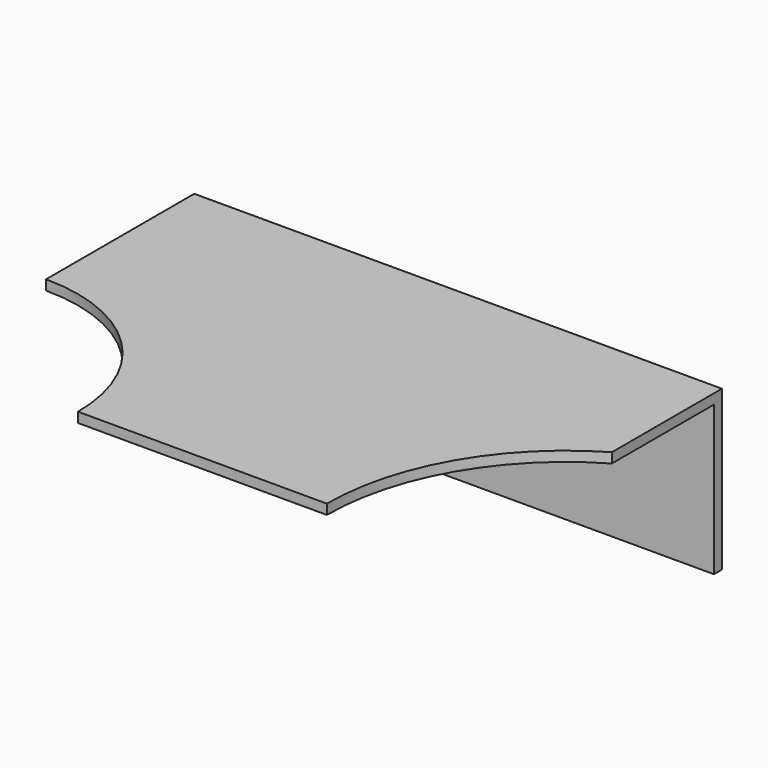
from build123d import *

# Parameters (mm, degrees)
CYLINDER005_R     = 0.6
CYLINDER005_DEPTH = 4
CYLINDER004_R     = 6
CYLINDER004_DEPTH = 6
CYLINDER003_R     = 4
CYLINDER003_DEPTH = 6
CUBE009_W         = 6.025
CUBE009_H         = 3.95
CUBE009_DEPTH     = 4
CUBE008_W         = 6.025
CUBE008_H         = 3.95
CUBE008_DEPTH     = 4
CUBE007_W         = 15.25
CUBE007_H         = 11.6
CUBE007_DEPTH     = 4
CUBE006_W         = 15.25
CUBE006_H         = 3.95
CUBE006_DEPTH     = 4
CUBE005_W         = 13.25
CUBE005_H         = 11.6
CUBE005_DEPTH     = 4


with BuildPart() as cylinder005:
    # cylinder005 → cylinder005 (new body)
    with BuildSketch(Plane(origin=(6.625, -10, -1), x_dir=(1, 0, 0), z_dir=(0, 0, 1))):
        Circle(CYLINDER005_R)
    extrude(amount=CYLINDER005_DEPTH)


with BuildPart() as cylinder004:
    # cylinder004 → cylinder004 (new body)
    with BuildSketch(Plane(origin=(16.25, 0, 0), x_dir=(1, 0, 0), z_dir=(0, 0, 1))):
        Circle(CYLINDER004_R)
    extrude(amount=CYLINDER004_DEPTH)


with BuildPart() as cylinder003:
    # cylinder003 → cylinder003 (new body)
    with BuildSketch(Plane.XY):
        Circle(CYLINDER003_R)
    extrude(amount=CYLINDER003_DEPTH)


with BuildPart() as cube009:
    # cube009 → cube009 (new body)
    with BuildSketch(Plane(origin=(8.225, -12.6, -1), x_dir=(1, 0, 0), z_dir=(0, 0, 1))):
        with Locations((3.0125, 1.975)):
            Rectangle(CUBE009_W, CUBE009_H)
    extrude(amount=CUBE009_DEPTH)


with BuildPart() as cube008:
    # cube008 → cube008 (new body)
    with BuildSketch(Plane(origin=(-1, -12.6, -1), x_dir=(1, 0, 0), z_dir=(0, 0, 1))):
        with Locations((3.0125, 1.975)):
            Rectangle(CUBE008_W, CUBE008_H)
    extrude(amount=CUBE008_DEPTH)


with BuildPart() as cube007:
    # cube007 → cube007 (new body)
    with BuildSketch(Plane(origin=(-1, -8.4, -0.25), x_dir=(1, 0, 0), z_dir=(0, 0, 1))):
        with Locations((7.625, 5.8)):
            Rectangle(CUBE007_W, CUBE007_H)
    extrude(amount=CUBE007_DEPTH)


with BuildPart() as cube006:
    # cube006 → cube006 (new body)
    with BuildSketch(Plane(origin=(-1, -1, 0.25), x_dir=(1, 0, 0), z_dir=(0, 0, 1))):
        with Locations((7.625, 1.975)):
            Rectangle(CUBE006_W, CUBE006_H)
    extrude(amount=CUBE006_DEPTH)


with BuildPart() as difference013:
    # cube005 → cube005 (new body)
    with BuildSketch(Plane.XY):
        with Locations((6.625, 5.8)):
            Rectangle(CUBE005_W, CUBE005_H)
    extrude(amount=CUBE005_DEPTH)

    # difference007: cut cube006
    add(cube006.part, mode=Mode.SUBTRACT)


with BuildPart() as difference013_1:
    # difference007 placement: moved
    add(difference013.part.moved(Location((0, -11.6, 0))))

    # difference008: cut cube007
    add(cube007.part, mode=Mode.SUBTRACT)

    # difference009: cut cube008
    add(cube008.part, mode=Mode.SUBTRACT)

    # difference010: cut cube009
    add(cube009.part, mode=Mode.SUBTRACT)

    # difference011: cut cylinder003
    add(cylinder003.part, mode=Mode.SUBTRACT)

    # difference012: cut cylinder004
    add(cylinder004.part, mode=Mode.SUBTRACT)

    # difference013: cut cylinder005
    add(cylinder005.part, mode=Mode.SUBTRACT)


with BuildPart() as mirrored_difference013:
    # mirr_difference013: instance of difference013
    add(difference013_1.part.mirror(Plane(origin=(0, 0, 0), x_dir=(1, 0, 0), z_dir=(0, 1, 0))))


solid = mirrored_difference013.part
